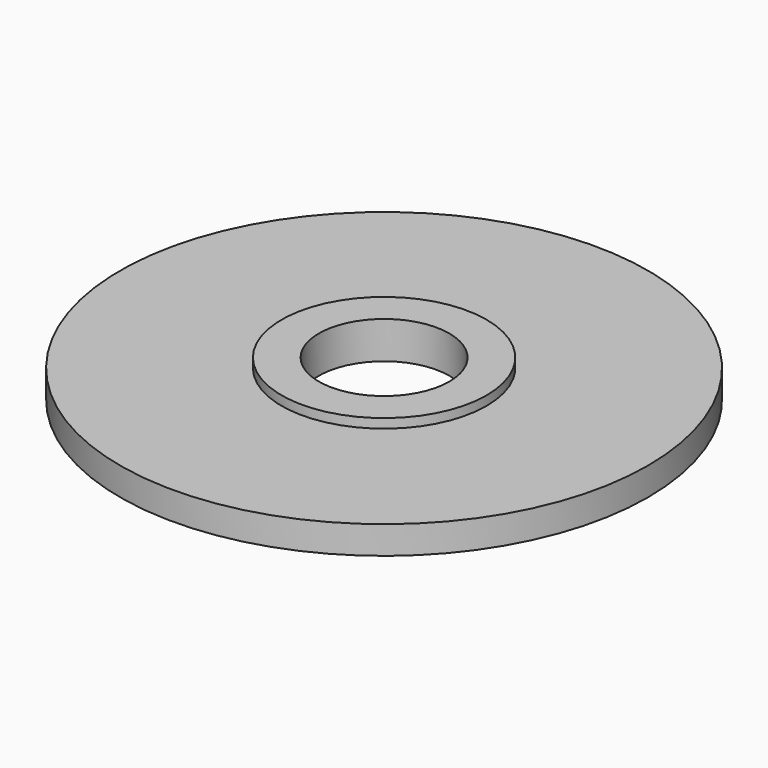
from build123d import *

# Parameters (mm, degrees)
CYLINDER_R     = 8.5
CYLINDER_DEPTH = 0.9
SKETCH_R       = 3.3
PAD_DEPTH      = 0.3
SKETCH001_R    = 2.1
POCKET_DEPTH   = 1.201


with BuildPart() as part:
    # Cylinder → Cylinder (new body)
    with BuildSketch(Plane.XY):
        Circle(CYLINDER_R)
    extrude(amount=CYLINDER_DEPTH)

    # Sketch → Pad (new body)
    with BuildSketch(Plane.XY.offset(0.9)):
        Circle(SKETCH_R)
    extrude(amount=PAD_DEPTH)

    # Sketch001 → Pocket (cut, through all)
    with BuildSketch(Plane.XY.offset(1.2)):
        Circle(SKETCH001_R)
    extrude(amount=-POCKET_DEPTH, mode=Mode.SUBTRACT)


solid = part.part
